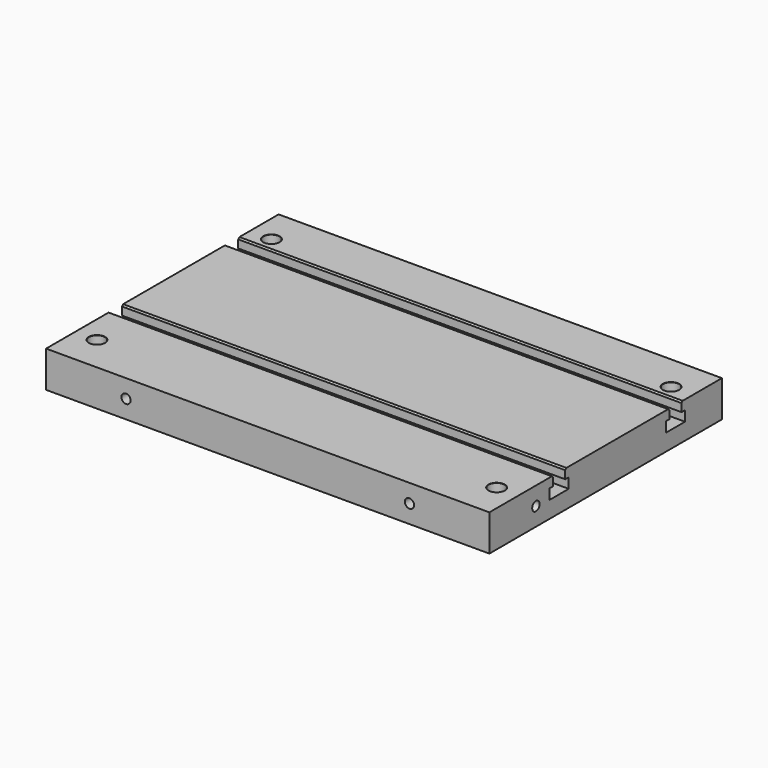
from build123d import *

# Parameters (mm, degrees)
F0_W            = 305
F0_H            = 200
F1_DEPTH        = 25
F3_D            = 11
F3_CSINK_D      = 11.25
F3_CSINK_ANGLE  = 90
F5_DEPTH        = 152.501
F5_DEPTH_BACK   = 152.501
F6_SIZE         = 1
F10_D           = 6.35
F10_DEPTH       = 42
F10_TIP         = 1.9077324654
F11_D           = 6.35
F11_DEPTH       = 57
F11_TIP         = 1.9077324654
F11_ON_F8_D     = 6.35
F11_ON_F8_DEPTH = 57
F11_ON_F8_TIP   = 1.9077324654


with BuildPart() as f1:
    # F0 (on Top) → F1 (new body)
    with BuildSketch(Plane.XY):
        Rectangle(F0_W, F0_H)
    extrude(amount=-F1_DEPTH)

    # F3 (through all)
    with Locations(Plane.XY):
        with Locations((-137.5, 75), (137.5, 75), (137.5, -75), (-137.5, -75)):
            CounterSinkHole(F3_D / 2, F3_CSINK_D / 2, counter_sink_angle=F3_CSINK_ANGLE)

    # F4 (on Right) → F5 (cut, two sides)
    with BuildSketch(Plane.YZ) as f5_sk:
        Polygon((-34.75, 0), (-40, 0), (-45.25, 0), (-45.25, -6.5), (-48.25, -6.5), (-48.25, -13.5), (-40, -13.5), (-31.75, -13.5), (-31.75, -6.5), (-34.75, -6.5), align=None)
        Polygon((65.25, 0), (60, 0), (54.75, 0), (54.75, -6.5), (51.75, -6.5), (51.75, -13.5), (60, -13.5), (68.25, -13.5), (68.25, -6.5), (65.25, -6.5), align=None)
    extrude(amount=-F5_DEPTH, mode=Mode.SUBTRACT)
    extrude(f5_sk.sketch, amount=F5_DEPTH_BACK, mode=Mode.SUBTRACT)

    # F6
    f6_edges = [f1.edges().sort_by_distance(p)[0] for p in [
        (0, -34.75, 0),
        (0, -45.25, 0),
        (0, 65.25, 0),
        (0, 54.75, 0),
    ]]
    chamfer(f6_edges, length=F6_SIZE)

    # F10
    with Locations(Plane.XZ.offset(100)):
        with Locations((97.5, -12.5), (-97.5, -12.5)):
            Hole(F10_D / 2, depth=F10_DEPTH)
            with Locations((0, 0, -(F10_DEPTH + F10_TIP / 2))):  # 118° drill point
                Cone(0, F10_D / 2, F10_TIP, mode=Mode.SUBTRACT)

    # F11
    with Locations(Plane(origin=(-152.5, 0, 0), x_dir=(0, -1, 0), z_dir=(-1, 0, 0))):
        with Locations((60, -12.5)):
            Hole(F11_D / 2, depth=F11_DEPTH)
            with Locations((0, 0, -(F11_DEPTH + F11_TIP / 2))):  # 118° drill point
                Cone(0, F11_D / 2, F11_TIP, mode=Mode.SUBTRACT)

    # F11 on F8
    with Locations(Plane.YZ.offset(152.5)):
        with Locations((-60, -12.5)):
            Hole(F11_ON_F8_D / 2, depth=F11_ON_F8_DEPTH)
            with Locations((0, 0, -(F11_ON_F8_DEPTH + F11_ON_F8_TIP / 2))):  # 118° drill point
                Cone(0, F11_ON_F8_D / 2, F11_ON_F8_TIP, mode=Mode.SUBTRACT)


solid = f1.part
